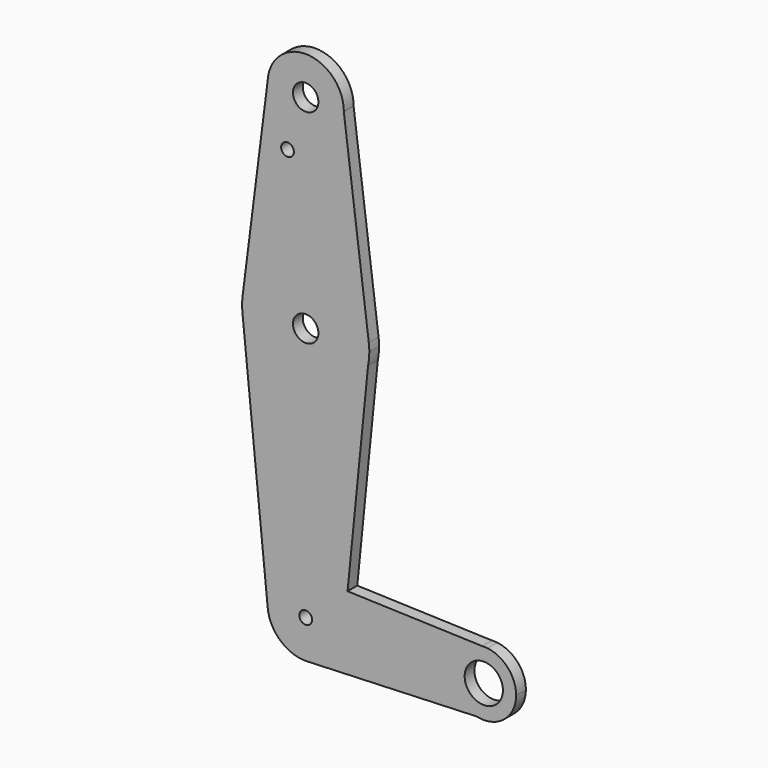
from build123d import *

# Parameters (mm, degrees)
F0_R     = 1.5875
F0_R_2   = 3.175
F1_DEPTH = 3.048


with BuildPart() as f1:
    # F0 (on Front) → F1 (new body)
    with BuildSketch(Plane.XZ):
        with BuildLine():
            ThreePointArc((0.3733761638, -73.017679089), (6.8659315814, -70.1018640186), (9.525, -63.5))
            ThreePointArc((9.525, -63.5), (6.8470427192, -56.8785476668), (0.3189882412, -53.9803428895))
            ThreePointArc((0.3189882412, -53.9803428895), (-6.955751157, -56.9928384958), (-9.4773081137, -64.4519747464))
            ThreePointArc((-9.4773081137, -64.4519747464), (-6.2500573564, -70.6876566447), (0.3733761638, -73.017679089))
        make_face()
        with Locations((0, -63.5)):
            Circle(F0_R, mode=Mode.SUBTRACT)
        with BuildLine():
            ThreePointArc((0.3189882412, -53.9803428895), (6.8470427192, -56.8785476668), (9.525, -63.5))
            Line((9.525, -63.5), (10.4430416531, -54.3195834686))
            Line((10.4430416531, -54.3195834686), (0.3189882412, -53.9803428895))
        make_face()
        with BuildLine():
            Line((10.4430416531, -54.3195834686), (9.525, -63.5))
            Line((9.525, -63.5), (36.3855, -63.5))
            ThreePointArc((36.3855, -63.5), (38.606702074, -57.9419401228), (44.0467386629, -55.4455887525))
            Line((44.0467386629, -55.4455887525), (10.4430416531, -54.3195834686))
        make_face()
        with BuildLine():
            Line((36.3855, -63.5), (9.525, -63.5))
            ThreePointArc((9.525, -63.5), (6.8659315814, -70.1018640186), (0.3733761638, -73.017679089))
            Line((0.3733761638, -73.017679089), (42.6430196711, -71.3594517837))
            ThreePointArc((42.6430196711, -71.3594517837), (38.140936951, -68.5231348473), (36.3855, -63.5))
        make_face()
        with BuildLine():
            ThreePointArc((44.0467386629, -55.4455887525), (38.606702074, -57.9419401228), (36.3855, -63.5))
            ThreePointArc((36.3855, -63.5), (38.140936951, -68.5231348473), (42.6430196711, -71.3594517837))
            Line((42.6430196711, -71.3594517837), (46.8671281079, -71.19374109))
            ThreePointArc((46.8671281079, -71.19374109), (50.9511187451, -68.2719613695), (52.5145, -63.5))
            ThreePointArc((52.5145, -63.5), (50.4761573118, -58.1407474118), (45.3915318547, -55.4906505872))
            Line((45.3915318547, -55.4906505872), (44.0467386629, -55.4455887525))
        make_face()
        with BuildLine():
            ThreePointArc((49.2248380675, -63.5), (44.45, -68.2748380675), (39.6751619325, -63.5))
            ThreePointArc((39.6751619325, -63.5), (44.45, -58.7251619325), (49.2248380675, -63.5))
        make_face(mode=Mode.SUBTRACT)
        with BuildLine():
            ThreePointArc((-9.4773081137, -64.4519747464), (-6.955751157, -56.9928384958), (0.3189882412, -53.9803428895))
            Line((0.3189882412, -53.9803428895), (10.4430416531, -54.3195834686))
            Line((10.4430416531, -54.3195834686), (15.5606435644, -3.1435643564))
            ThreePointArc((15.5606435644, -3.1435643564), (-0.6207221916, -15.8628600498), (-15.7587061227, -1.9180214647))
            Line((-15.7587061227, -1.9180214647), (-9.4773081137, -64.4519747464))
        make_face()
        with BuildLine():
            ThreePointArc((45.3915318547, -55.4906505872), (44.7200767109, -55.4400236464), (44.0467386629, -55.4455887525))
            Line((44.0467386629, -55.4455887525), (45.3915318547, -55.4906505872))
        make_face()
        with BuildLine():
            Line((46.8671281079, -71.19374109), (42.6430196711, -71.3594517837))
            ThreePointArc((42.6430196711, -71.3594517837), (44.7661251122, -71.5583016302), (46.8671281079, -71.19374109))
        make_face()
        with BuildLine():
            Line((15.875, 0), (15.5606435644, -3.1435643564))
            ThreePointArc((15.5606435644, -3.1435643564), (15.7962153946, -1.5796215395), (15.875, 0))
        make_face()
        with BuildLine():
            ThreePointArc((-15.7587061227, -1.9180214647), (-0.6207221916, -15.8628600498), (15.5606435644, -3.1435643564))
            Line((15.5606435644, -3.1435643564), (15.875, 0))
            ThreePointArc((15.875, 0), (15.8429193371, 1.0087278514), (15.7468070075, 2.0133787694))
            ThreePointArc((15.7468070075, 2.0133787694), (-0.0085666377, 15.8749976886), (-15.7489707983, 1.9963826776))
            ThreePointArc((-15.7489707983, 1.9963826776), (-15.8749509034, 0.0394818193), (-15.7587061227, -1.9180214647))
        make_face()
        Circle(F0_R_2, mode=Mode.SUBTRACT)
        with BuildLine():
            Line((-9.5187469056, 51.1450831007), (-15.7489707983, 1.9963826776))
            ThreePointArc((-15.7489707983, 1.9963826776), (-0.0085666377, 15.8749976886), (15.7468070075, 2.0133787694))
            Line((15.7468070075, 2.0133787694), (9.5242506354, 50.6805226635))
            ThreePointArc((9.5242506354, 50.6805226635), (-0.232296519, 41.2778330551), (-9.5187469056, 51.1450831007))
        make_face()
        with Locations((-4.5300092709, 37.8425278925)):
            Circle(F0_R, mode=Mode.SUBTRACT)
        with BuildLine():
            ThreePointArc((9.525, 50.8), (0.1725698754, 60.3234365981), (-9.5187469056, 51.1450831007))
            ThreePointArc((-9.5187469056, 51.1450831007), (-0.232296519, 41.2778330551), (9.5242506354, 50.6805226635))
            ThreePointArc((9.5242506354, 50.6805226635), (9.524812657, 50.7402601567), (9.525, 50.8))
        make_face()
        with Locations((0, 50.8)):
            Circle(F0_R_2, mode=Mode.SUBTRACT)
    extrude(amount=F1_DEPTH)


solid = f1.part
